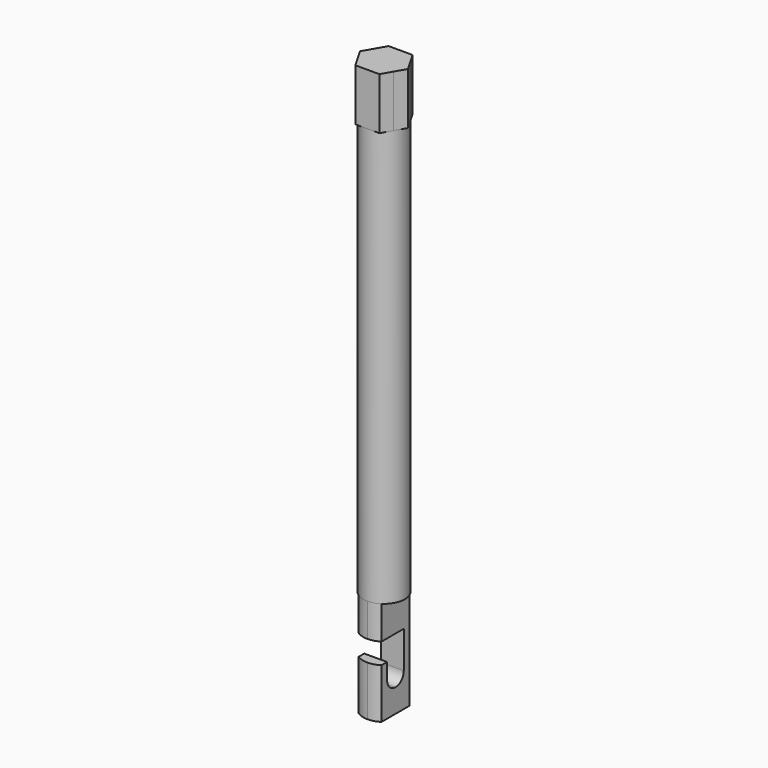
from build123d import *

# Parameters (mm, degrees)
F0_R     = 2
F1_DEPTH = 40
F3_DEPTH = 5
F5_DEPTH = 10
F6_W     = 0.9371294279
F6_H     = 2
F6_W_2   = 0.6703293088
F6_W_3   = 1
F7_DEPTH = 25


with BuildPart() as f1:
    # F0 (on Top) → F1 (new body)
    with BuildSketch(Plane.XY):
        Circle(F0_R)
    extrude(amount=F1_DEPTH)

    # F2 (on face) → F3 (join)
    with BuildSketch(Plane.XY.offset(40)):
        with BuildLine():
            Line((0, 2), (-1.1547005384, 2))
            Line((-1.1547005384, 2), (-1.7320507826, 1.0000000433))
            ThreePointArc((-1.7320507826, 1.0000000433), (-0.9999999783, 1.7320508201), (0, 2))
        make_face()
        with BuildLine():
            ThreePointArc((-1.7320507826, -1.0000000433), (-2, 0), (-1.7320507826, 1.0000000433))
            Line((-1.7320507826, 1.0000000433), (-2.3094010768, 0))
            Line((-2.3094010768, 0), (-1.7320507826, -1.0000000433))
        make_face()
        with BuildLine():
            ThreePointArc((0, -2), (-0.9999999783, -1.7320508201), (-1.7320507826, -1.0000000433))
            Line((-1.7320507826, -1.0000000433), (-1.1547005384, -2))
            Line((-1.1547005384, -2), (0, -2))
        make_face()
        with BuildLine():
            ThreePointArc((1.7320507983, -1.0000000161), (0.999999992, -1.7320508122), (0, -2))
            Line((0, -2), (1.1547005384, -2))
            Line((1.1547005384, -2), (1.7320507983, -1.0000000161))
        make_face()
        with BuildLine():
            Line((2.3094010768, 0), (1.7320507826, 1.0000000433))
            ThreePointArc((1.7320507826, 1.0000000433), (1.9318516461, 0.5176381144), (2, 0))
            ThreePointArc((2, 0), (1.9318516502, -0.5176380992), (1.7320507983, -1.0000000161))
            Line((1.7320507983, -1.0000000161), (2.3094010768, 0))
        make_face()
        with BuildLine():
            Line((1.1547005384, 2), (0, 2))
            ThreePointArc((0, 2), (0.9999999783, 1.7320508201), (1.7320507826, 1.0000000433))
            Line((1.7320507826, 1.0000000433), (1.1547005384, 2))
        make_face()
        with BuildLine():
            ThreePointArc((1.7320507826, 1.0000000433), (0.9999999783, 1.7320508201), (0, 2))
            ThreePointArc((0, 2), (-0.9999999783, 1.7320508201), (-1.7320507826, 1.0000000433))
            ThreePointArc((-1.7320507826, 1.0000000433), (-2, 0), (-1.7320507826, -1.0000000433))
            ThreePointArc((-1.7320507826, -1.0000000433), (-0.9999999783, -1.7320508201), (0, -2))
            ThreePointArc((0, -2), (0.999999992, -1.7320508122), (1.7320507983, -1.0000000161))
            ThreePointArc((1.7320507983, -1.0000000161), (1.9318516502, -0.5176380992), (2, 0))
            ThreePointArc((2, 0), (1.9318516461, 0.5176381144), (1.7320507826, 1.0000000433))
        make_face()
    extrude(amount=F3_DEPTH)

    # F4 (on face) → F5 (join)
    with BuildSketch(Plane(origin=(0, 0, 0), x_dir=(1, 0, 0), z_dir=(0, 0, -1))):
        with BuildLine():
            ThreePointArc((1.1, 1.6703293088), (0.5741695665, 1.915810353), (0, 2))
            ThreePointArc((0, 2), (-0.5741695665, 1.915810353), (-1.1, 1.6703293088))
            Line((-1.1, 1.6703293088), (-1.1, -1.6703293088))
            ThreePointArc((-1.1, -1.6703293088), (-0.5741695665, -1.915810353), (0, -2))
            ThreePointArc((0, -2), (0.5741695665, -1.915810353), (1.1, -1.6703293088))
            Line((1.1, -1.6703293088), (1.1, 1.6703293088))
        make_face()
    extrude(amount=F5_DEPTH)

    # F6 (on face) → F7 (cut)
    with BuildSketch(Plane.YZ.offset(1.1)):
        with Locations((-2.1388940228, -4.197623184)):
            Rectangle(F6_W, F6_H)
        with Locations((-1.3351646544, -4.197623184)):
            Rectangle(F6_W_2, F6_H)
        with Locations((-0.5, -4.197623184)):
            Rectangle(F6_W_3, F6_H)
        with BuildLine():
            Line((1, -3.197623184), (0, -3.197623184))
            Line((0, -3.197623184), (0, -5.197623184))
            Line((0, -5.197623184), (-1, -5.197623184))
            Line((-1, -5.197623184), (-1, -6.7451779507))
            ThreePointArc((-1, -6.7451779507), (-0.7071067812, -7.4522847319), (0, -7.7451779507))
            ThreePointArc((0, -7.7451779507), (0.7071067812, -7.4522847319), (1, -6.7451779507))
            Line((1, -6.7451779507), (1, -3.197623184))
        make_face()
    extrude(amount=-F7_DEPTH, mode=Mode.SUBTRACT)


solid = f1.part
